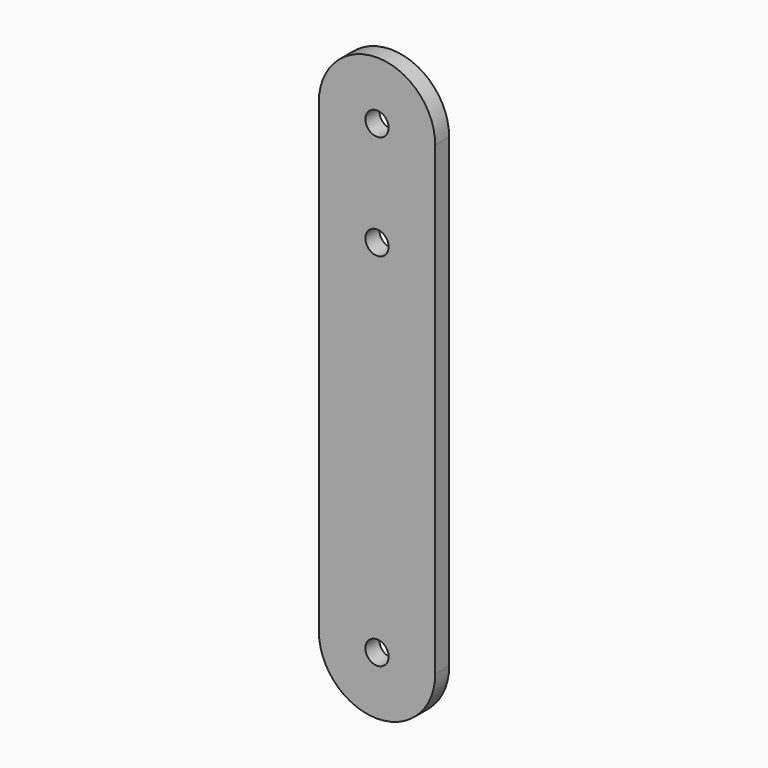
from build123d import *

# Parameters (mm, degrees)
F0_R     = 2
F1_DEPTH = 3


with BuildPart() as f1:
    # F0 (on Front) → F1 (new body)
    with BuildSketch(Plane.XZ):
        with BuildLine():
            ThreePointArc((-10, -40), (0, -50), (10, -40))
            Line((10, -40), (10, 40))
            ThreePointArc((10, 40), (0, 50), (-10, 40))
            Line((-10, 40), (-10, -40))
        make_face()
        with Locations((0, -40)):
            Circle(F0_R, mode=Mode.SUBTRACT)
        with Locations((0, 22)):
            Circle(F0_R, mode=Mode.SUBTRACT)
        with Locations((0, 40)):
            Circle(F0_R, mode=Mode.SUBTRACT)
    extrude(amount=F1_DEPTH)


solid = f1.part
